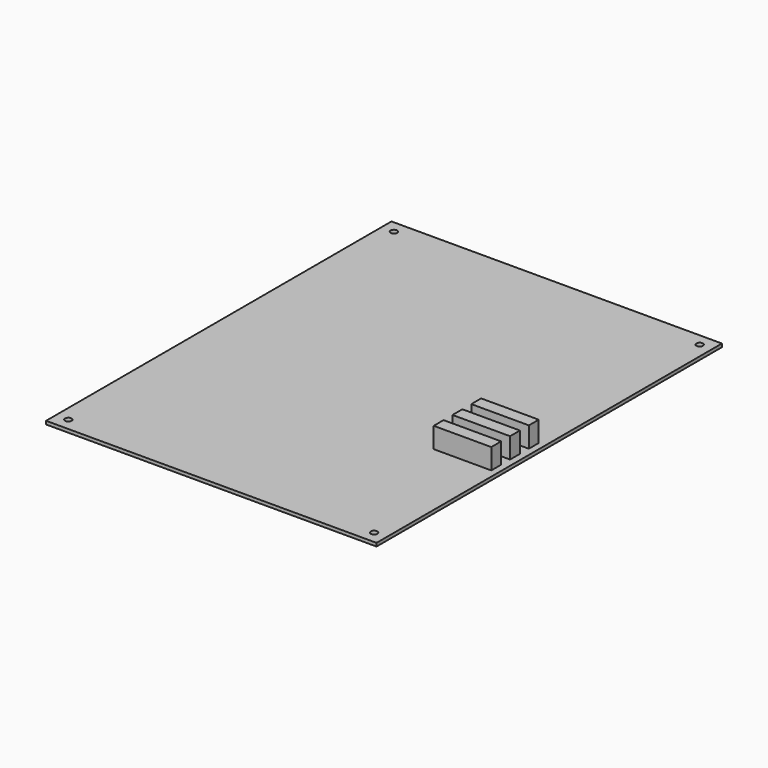
from build123d import *

# Parameters (mm, degrees)
SKETCH002_W      = 160.74
SKETCH002_H      = 210
SKETCH002_R      = 1.6
EXTRUDE002_DEPTH = 1.6
SKETCH007_W      = 28
SKETCH007_H      = 6
EXTRUDE007_DEPTH = 10


with BuildPart() as extrude002:
    # Sketch002 → Extrude002 (new body)
    with BuildSketch(Plane.XY.offset(8)):
        with Locations((80.37, 105)):
            Rectangle(SKETCH002_W, SKETCH002_H)
        with Locations((6, 204)):
            Circle(SKETCH002_R, mode=Mode.SUBTRACT)
        with Locations((154.74, 204)):
            Circle(SKETCH002_R, mode=Mode.SUBTRACT)
        with Locations((154.74, 6)):
            Circle(SKETCH002_R, mode=Mode.SUBTRACT)
        with Locations((6, 6)):
            Circle(SKETCH002_R, mode=Mode.SUBTRACT)
    extrude(amount=EXTRUDE002_DEPTH)


with BuildPart() as obj1:
    # Sketch007 (on Face10 of Extrude002) → Extrude007 (new body)
    with BuildSketch(Plane.XY.offset(9.6)):
        with Locations((143.552, 99.603)):
            Rectangle(SKETCH007_W, SKETCH007_H)
        with Locations((143.552, 88.173)):
            Rectangle(SKETCH007_W, SKETCH007_H)
        with Locations((143.552, 76.743)):
            Rectangle(SKETCH007_W, SKETCH007_H)
    extrude(amount=EXTRUDE007_DEPTH)

    # Fusion002: union Extrude002
    add(extrude002.part)


solid = obj1.part
